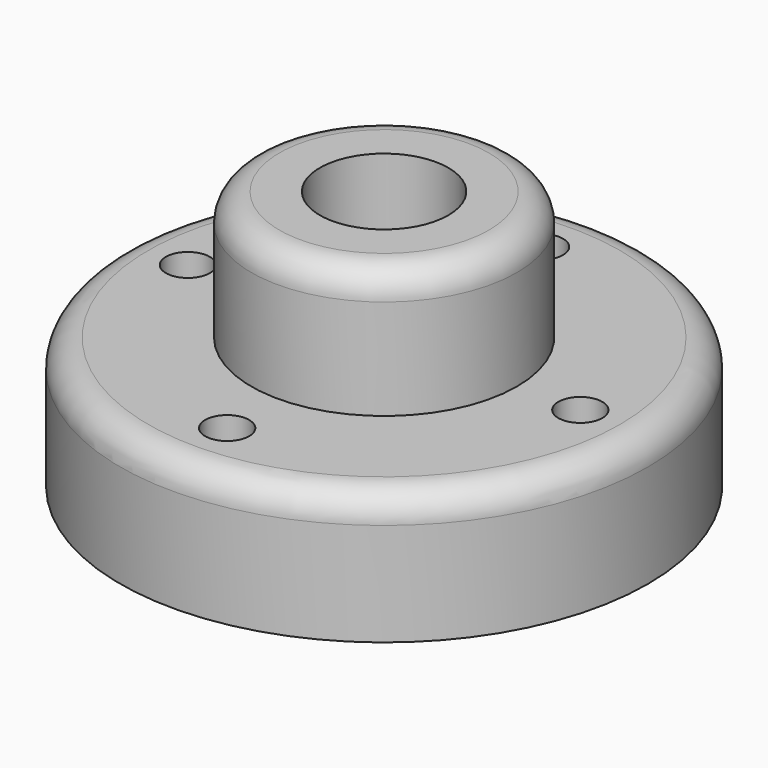
from build123d import *

# Parameters (mm, degrees)
F0_R     = 30
F0_R_2   = 2.5
F1_DEPTH = 14.9
F2_R     = 3.2
F3_R     = 15.1
F4_DEPTH = 14.6
F5_R     = 3.2
F6_R     = 7.3
F7_DEPTH = 60


with BuildPart() as f1:
    # F0 (on Top) → F1 (new body)
    with BuildSketch(Plane.XY):
        Circle(F0_R)
        with Locations((0, -22.3)):
            Circle(F0_R_2, mode=Mode.SUBTRACT)
        with Locations((-22.3, 0)):
            Circle(F0_R_2, mode=Mode.SUBTRACT)
        with Locations((22.3, 0)):
            Circle(F0_R_2, mode=Mode.SUBTRACT)
        with Locations((0, 22.3)):
            Circle(F0_R_2, mode=Mode.SUBTRACT)
    extrude(amount=F1_DEPTH)

    # F2
    f2_edges = [f1.edges().sort_by_distance(p)[0] for p in [
        (-30, 0, 14.9),
    ]]
    fillet(f2_edges, radius=F2_R)

    # F3 (on face) → F4 (join)
    with BuildSketch(Plane.XY.offset(14.9)):
        Circle(F3_R)
    extrude(amount=F4_DEPTH)

    # F5
    f5_edges = [f1.edges().sort_by_distance(p)[0] for p in [
        (-15.1, 0, 29.5),
    ]]
    fillet(f5_edges, radius=F5_R)

    # F6 (on face) → F7 (cut)
    with BuildSketch(Plane.XY.offset(29.5)):
        Circle(F6_R)
    extrude(amount=-F7_DEPTH, mode=Mode.SUBTRACT)


solid = f1.part
